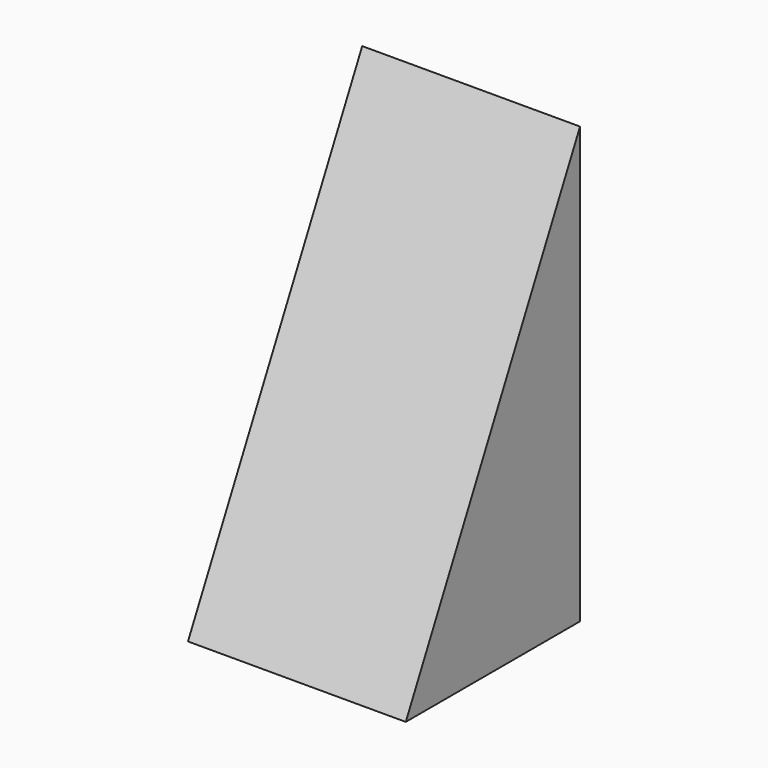
from build123d import *

# Parameters (mm, degrees)
F0_W     = 25
F0_H     = 25
F1_DEPTH = 50
F3_DEPTH = 25


with BuildPart() as f1:
    # F0 (on Top) → F1 (new body)
    with BuildSketch(Plane.XY):
        with Locations((0, -12.5)):
            Rectangle(F0_W, F0_H)
    extrude(amount=F1_DEPTH)

    # F2 (on face) → F3 (cut)
    with BuildSketch(Plane(origin=(-12.5, 0, 0), x_dir=(0, -1, 0), z_dir=(-1, 0, 0))):
        Polygon((25, 50), (0, 50), (25, 0), align=None)
    extrude(amount=-F3_DEPTH, mode=Mode.SUBTRACT)


solid = f1.part
